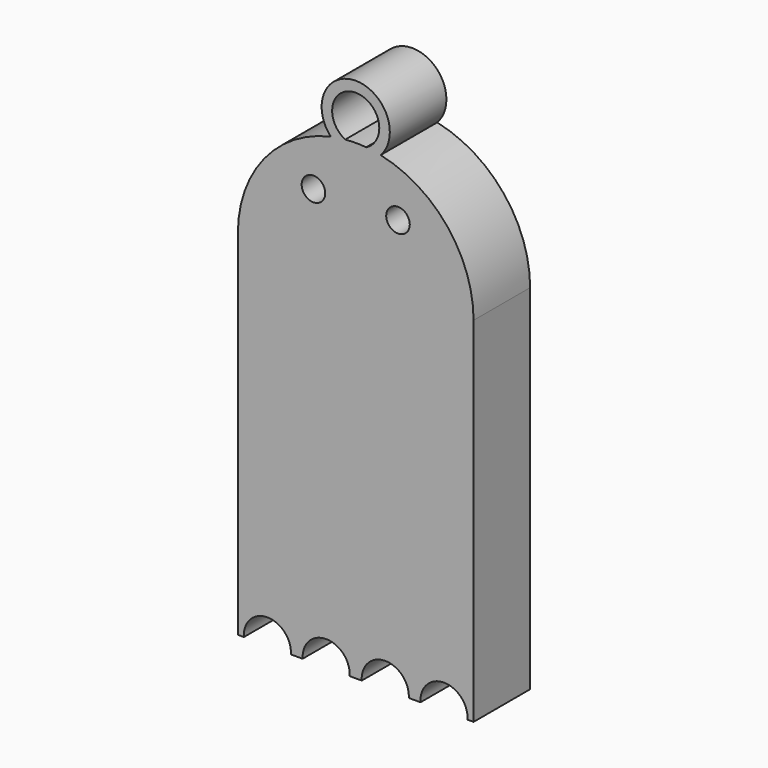
from build123d import *

# Parameters (mm, degrees)
F0_R     = 0.5
F1_DEPTH = 3


with BuildPart() as f1:
    # F0 (on Front) → F1 (new body)
    with BuildSketch(Plane.XZ):
        with BuildLine():
            Line((-8.590608, 25.292514), (-8.590608, 40.292514))
            ThreePointArc((-8.590608, 40.292514), (-9.699505, 43.432469), (-12.534335, 45.179669))
            ThreePointArc((-12.534335, 45.179669), (-13.590608, 47.615827), (-14.64688, 45.179669))
            ThreePointArc((-14.64688, 45.179669), (-17.481711, 43.432469), (-18.590608, 40.292514))
            Line((-18.590608, 40.292514), (-18.590608, 25.292514))
            Line((-18.590608, 25.292514), (-18.340608, 25.292514))
            Line((-18.340608, 25.292514), (-18.334974, 25.292514))
            ThreePointArc((-18.334974, 25.292514), (-17.336878, 26.35419), (-16.338782, 25.292514))
            Line((-16.338782, 25.292514), (-15.842434, 25.292514))
            ThreePointArc((-15.842434, 25.292514), (-14.844338, 26.35419), (-13.846241, 25.292514))
            Line((-13.846241, 25.292514), (-13.334974, 25.292514))
            ThreePointArc((-13.334974, 25.292514), (-12.336878, 26.35419), (-11.338782, 25.292514))
            Line((-11.338782, 25.292514), (-10.842434, 25.292514))
            ThreePointArc((-10.842434, 25.292514), (-9.844338, 26.35419), (-8.846241, 25.292514))
            Line((-8.846241, 25.292514), (-8.590608, 25.292514))
        make_face()
        with Locations((-15.384169, 42.988725)):
            Circle(F0_R, mode=Mode.SUBTRACT)
        with Locations((-11.797046, 42.988725)):
            Circle(F0_R, mode=Mode.SUBTRACT)
        with BuildLine():
            ThreePointArc((-14.034659, 45.272757), (-13.590608, 47.168758), (-13.146557, 45.272757))
            ThreePointArc((-13.146557, 45.272757), (-13.590608, 45.292514), (-14.034659, 45.272757))
        make_face(mode=Mode.SUBTRACT)
    extrude(amount=F1_DEPTH)


solid = f1.part
